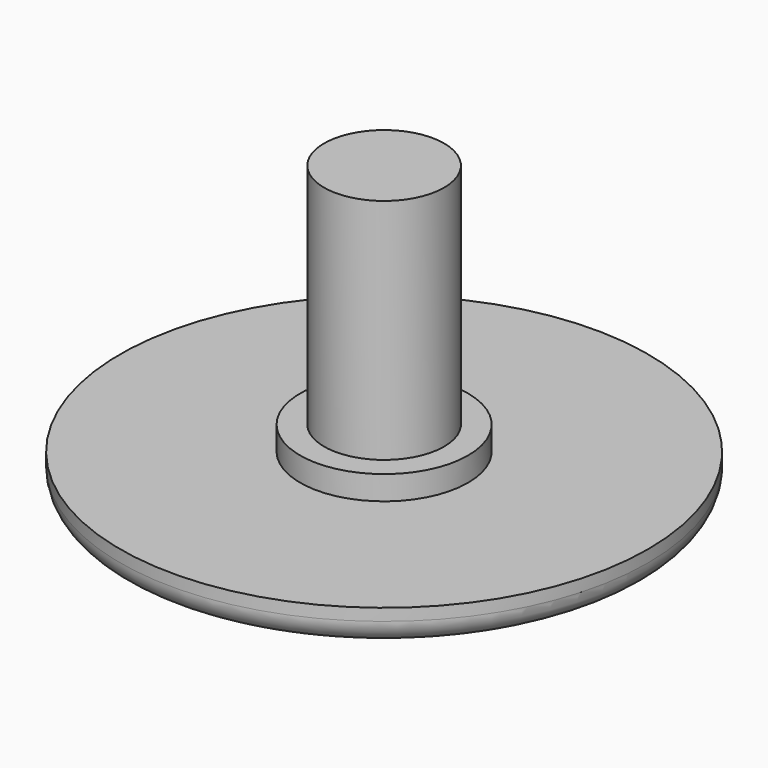
from build123d import *

# Parameters (mm, degrees)
F0_R     = 11
F1_DEPTH = 1.5
F2_R     = 3.5
F3_DEPTH = 1
F4_R     = 2.5
F5_DEPTH = 9.5
F6_R     = 1


with BuildPart() as f1:
    # F0 (on Top) → F1 (new body)
    with BuildSketch(Plane.XY):
        Circle(F0_R)
    extrude(amount=-F1_DEPTH)

    # F2 (on face) → F3 (join)
    with BuildSketch(Plane.XY):
        Circle(F2_R)
    extrude(amount=F3_DEPTH)

    # F4 (on face) → F5 (join)
    with BuildSketch(Plane.XY.offset(1)):
        Circle(F4_R)
    extrude(amount=F5_DEPTH)

    # F6
    f6_edges = [f1.edges().sort_by_distance(p)[0] for p in [
        (-11, 0, -1.5),
    ]]
    fillet(f6_edges, radius=F6_R)


solid = f1.part
